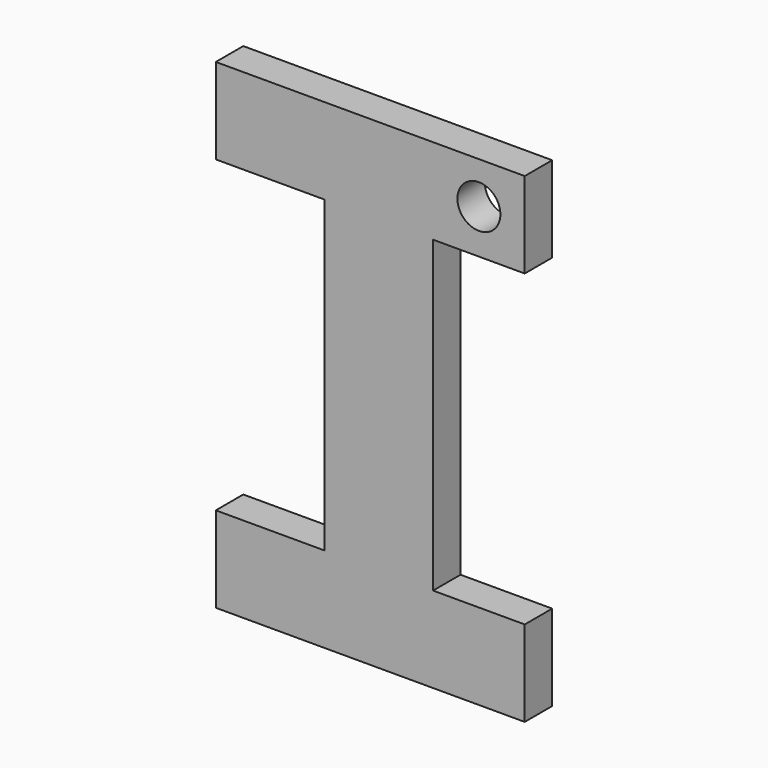
from build123d import *

# Parameters (mm, degrees)
F1_DEPTH = 2.54
F2_R     = 1.589484
F3_DEPTH = 2.54


with BuildPart() as f1:
    # F0 (on Front) → F1 (new body)
    with BuildSketch(Plane.XZ):
        Polygon((-12.964887, 6.35), (-12.964887, 0), (9.895113, 0), (9.895113, 6.35), (3.112477, 6.35), (3.112477, 29.21), (9.895113, 29.21), (9.895113, 35.56), (-12.964887, 35.56), (-12.964887, 29.21), (-4.926205, 29.21), (-4.926205, 6.35), align=None)
    extrude(amount=F1_DEPTH)

    # F2 (on face) → F3 (cut)
    with BuildSketch(Plane.XZ.offset(2.54)):
        with Locations((6.503795, 32.47159)):
            Circle(F2_R)
    extrude(amount=-F3_DEPTH, mode=Mode.SUBTRACT)


solid = f1.part
